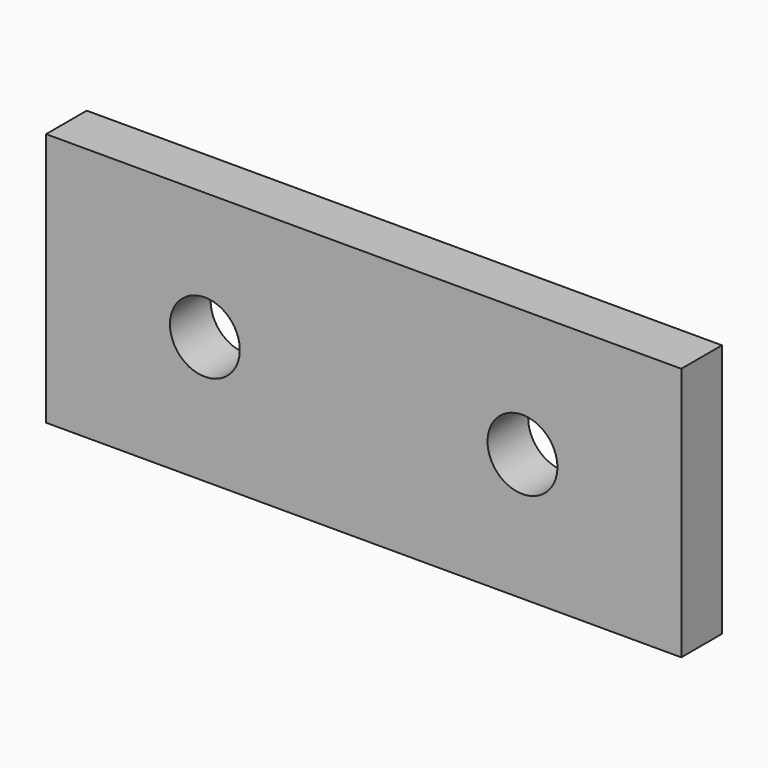
from build123d import *

# Parameters (mm, degrees)
F0_W     = 100
F0_H     = 40
F0_R     = 5
F1_DEPTH = 8
F2_D     = 11


with BuildPart() as f1:
    # F0 (on Front) → F1 (new body)
    with BuildSketch(Plane.XZ):
        Rectangle(F0_W, F0_H)
        with Locations((-25, 0)):
            Circle(F0_R, mode=Mode.SUBTRACT)
        with Locations((25, 0)):
            Circle(F0_R, mode=Mode.SUBTRACT)
        with Locations((-25, 0)):
            Circle(F0_R)
        with Locations((25, 0)):
            Circle(F0_R)
    extrude(amount=F1_DEPTH)

    # F2 (through all)
    with Locations(Plane(origin=(0, 0, 0), x_dir=(1, 0, 0), z_dir=(0, 1, 0))):
        with Locations((-25, 0), (25, 0)):
            Hole(F2_D / 2)


solid = f1.part
